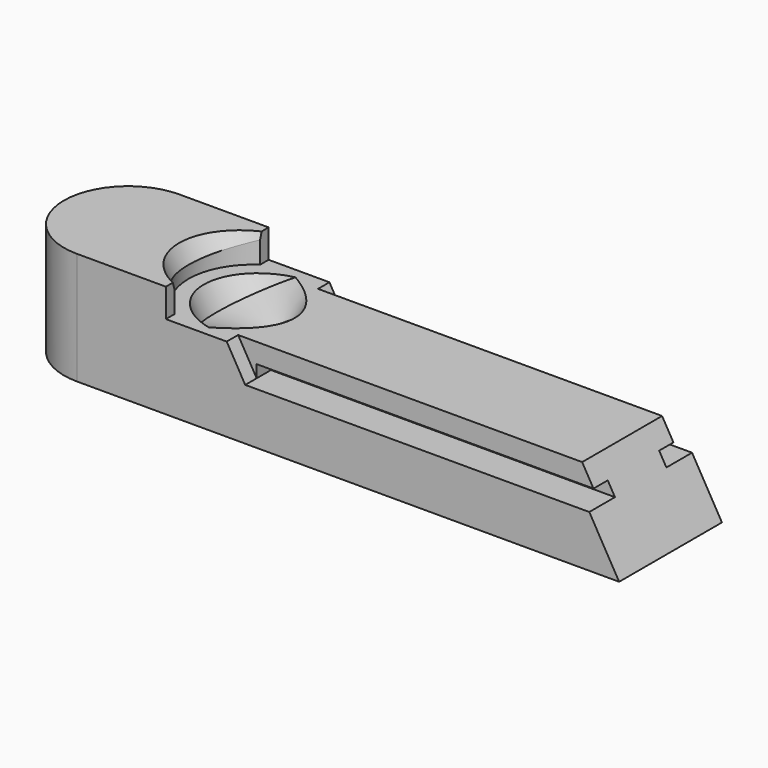
from build123d import *

# Parameters (mm, degrees)
F1_DEPTH  = 5.969
F3_DEPTH  = 1.016
F4_W      = 26.6201772846
F4_H      = 0.889
F5_DEPTH  = 1.27
F7_DEPTH  = 9.145
F10_DEPTH = 2.032


with BuildPart() as f1:
    # F0 (on Top) → F1 (new body)
    with BuildSketch(Plane.XY):
        with BuildLine():
            Line((25.1714, 4.572), (-13.4366, 4.572))
            ThreePointArc((-13.4366, 4.572), (-18.0086, 0), (-13.4366, -4.572))
            Line((-13.4366, -4.572), (25.1714, -4.572))
            Line((25.1714, -4.572), (25.1714, 4.572))
        make_face()
    extrude(amount=F1_DEPTH)

    # F2 (on face) → F3 (cut)
    with BuildSketch(Plane.XZ.offset(4.572)):
        Polygon((-2.7686, 5.969), (-1.4487772846, 3.683), (25.1714, 3.683), (25.1714, 5.969), align=None)
    extrude(amount=-F3_DEPTH, mode=Mode.SUBTRACT)

    # F4 (on face) → F5 (cut)
    with BuildSketch(Plane.XZ.offset(3.556)):
        with Locations((11.8613113577, 4.1275)):
            Rectangle(F4_W, F4_H)
    extrude(amount=-F5_DEPTH, mode=Mode.SUBTRACT)

    # F6 (on face) → F7 (cut, through all)
    with BuildSketch(Plane.XZ.offset(4.572)):
        Polygon((21.7251962432, 5.969), (25.1714, 0), (25.1714, 5.969), align=None)
    extrude(amount=-F7_DEPTH, mode=Mode.SUBTRACT)

    # F8: F1 across plane


with BuildPart() as f1_1:
    add(f1.part)
    add(f1.part.mirror(Plane.XZ), mode=Mode.INTERSECT)

    # F9 (on face) → F10 (join)
    with BuildSketch(Plane.XY.offset(5.969)):
        with BuildLine():
            Line((-7.0992680903, 4.572), (-13.4366, 4.572))
            ThreePointArc((-13.4366, 4.572), (-18.0086, 0), (-13.4366, -4.572))
            Line((-13.4366, -4.572), (-7.0992680903, -4.572))
            Line((-7.0992680903, -4.572), (-7.0992680903, -3.81))
            ThreePointArc((-7.0992680903, -3.81), (-9.144, 0), (-7.0992680903, 3.81))
            Line((-7.0992680903, 3.81), (-7.0992680903, 4.572))
        make_face()
    extrude(amount=F10_DEPTH)

    # F11 (on Front) → F12 (revolve, cut)
    with BuildSketch(Plane.XZ):
        Polygon((1.905, -3.2995567884), (0, 0), (-7.366, 12.7582862486), (-11.2594770103, 10.5103862486), (-8.6375064372, 5.969), (-8.0509185637, 5.969), (-7.1927008583, 4.4825233303), (-3.8830387258, 4.3380203608), (0.871138873, -3.8964567884), align=None)
    revolve(axis=Axis((-3.683, 0, 6.3791431243), (-0.5, 0, 0.8660254038)), mode=Mode.SUBTRACT)


solid = f1_1.part
